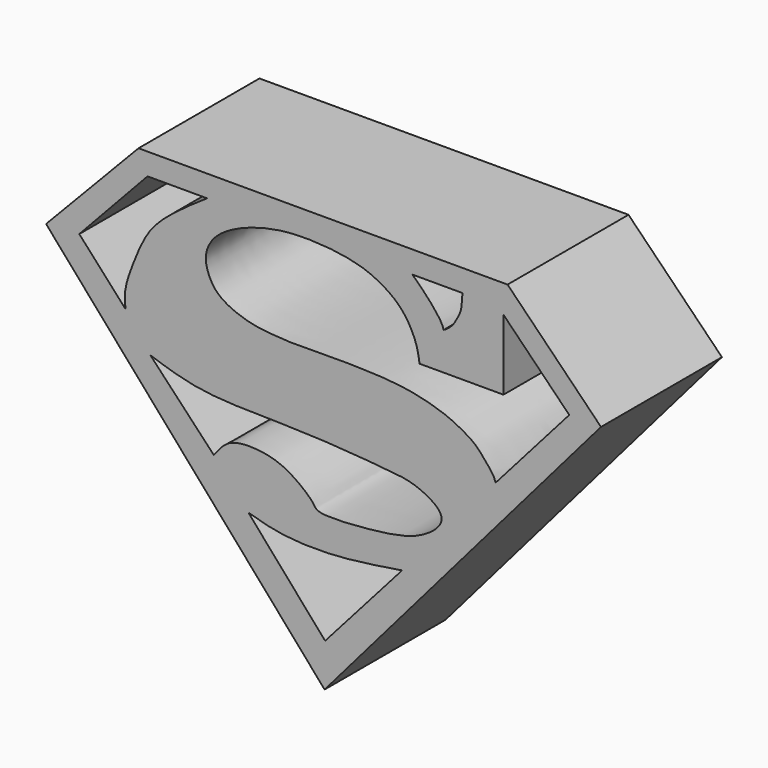
from build123d import *

# Parameters (mm, degrees)
F0_W     = 25.4
F0_H     = 25.4
F1_DEPTH = 6.35
F2_W     = 25.4
F2_H     = 25.4
F3_DEPTH = 25.4


with BuildPart() as f1:
    # F0 (on Front) → F1 (new body)
    with BuildSketch(Plane.XZ):
        with Locations((12.7, 12.7)):
            Rectangle(F0_W, F0_H)
    extrude(amount=F1_DEPTH)

    # F2 (on face) → F3 (cut)
    with BuildSketch(Plane.XZ.offset(6.35)):
        with Locations((12.7, 12.7)):
            Rectangle(F2_W, F2_H)
        Polygon((0.3338013776, 14.5358080044), (4.7320262529, 18.974384293), (20.6301975995, 18.974384293), (24.9477215111, 14.5358080044), (12.7214631066, 0.3323648707), align=None, mode=Mode.SUBTRACT)
        Polygon((20.6301975995, 18.974384293), (4.7320262529, 18.974384293), (0.3338013776, 14.5358080044), (12.7214631066, 0.3323648707), (24.9477215111, 14.5358080044), align=None)
        Polygon((1.0363665456, 14.4554575676), (4.9192802981, 18.517497927), (20.4212833196, 18.517497927), (24.3454314768, 14.5284896716), (12.7356834775, 1.0412566974), align=None, mode=Mode.SUBTRACT)
        with BuildLine():
            Line((20.2488508075, 14.388714917), (16.7226251215, 14.388714917))
            add(Edge.make_bspline(
                [(19.923210144, 11.0299624503), (19.8936833698, 11.1068205677), (19.8299234418, 11.2727874962), (19.6223696345, 11.549259391), (19.3461589342, 11.8666053246), (19.016136623, 12.2515289928), (18.1929920157, 12.6999751524), (17.8035091044, 12.8613244955), (17.1214191196, 13.0851285405), (16.5444929434, 13.2097138086), (16.0319357354, 13.3043296611), (15.4458397931, 13.3451740329), (15.2069802443, 13.3831303578), (14.7967498583, 13.3801712245), (14.4455542578, 13.4094445153), (14.0375044686, 13.41801948), (13.5998566511, 13.4322161736), (13.2790747943, 13.4090602494), (12.997560766, 13.4268268493), (12.6675563859, 13.4219929957), (12.3577212675, 13.4230111774), (11.7381036154, 13.4119693181), (11.1441655063, 13.4149227649), (10.6050706965, 13.4558974424), (9.9502260677, 13.5127650925), (9.3095858988, 13.660344231), (8.6977397381, 13.901021868), (8.1050269511, 14.2935394752), (7.7872763168, 14.9438702672), (7.6925907821, 15.5435629309), (8.0758372089, 16.3769056905), (9.3149079683, 17.0722576657), (10.676180334, 17.4114429825), (11.6535502048, 17.4877819437), (12.5212673577, 17.4675954763), (13.4152912783, 17.3848870993), (14.4931075695, 17.1612369259), (15.468036204, 16.6478782577), (16.143622712, 16.0254885621), (16.6213161242, 15.105885003), (16.6908395774, 14.6137259425), (16.7226251215, 14.388714917)],
                knots=[0, 0, 0, 0, 0.0164645042, 0.0355533454, 0.0564717872, 0.0801205572, 0.1112554378, 0.1331902125, 0.1603726427, 0.1856837551, 0.2096370752, 0.2342343485, 0.2505641867, 0.2710104343, 0.2906731917, 0.3115502614, 0.3332549045, 0.3516984566, 0.3690040569, 0.3874430816, 0.4057231709, 0.4313188187, 0.456766967, 0.4807148765, 0.5071122689, 0.5336306062, 0.5600718225, 0.5873195996, 0.6145839736, 0.6393940914, 0.6691626351, 0.7078611149, 0.7468518253, 0.7790314259, 0.8090692862, 0.8399781775, 0.874272503, 0.9083311803, 0.9396345261, 0.9724014078, 1, 1, 1, 1], degree=3))
            Line((19.923210144, 11.0299624503), (23.0121463537, 14.53757938))
            Line((23.0121463537, 14.53757938), (20.2488508075, 17.3473954201))
            Line((20.2488508075, 17.3473954201), (20.2488508075, 14.388714917))
        make_face()
        with BuildLine():
            Line((5.4179881699, 11.0252974555), (8.0811334774, 8.2007497549))
            add(Edge.make_bspline(
                [(8.0811334774, 8.2007497549), (8.2721304417, 8.4526674108), (8.665160909, 8.9710594932), (9.7827369848, 9.0540100476), (11.0619751357, 8.8392947447), (12.2876766366, 7.8415786879), (12.4018325363, 7.4038876799), (14.9067808681, 7.57256872), (16.7849008985, 7.8831382899), (18.0864189142, 9.0484979061), (16.58363858, 9.8993695802), (15.4745268105, 10.0241638434), (12.7418521776, 10.2490576582), (10.4334869279, 10.3057534404), (7.4965590108, 10.3273271839), (6.0780316763, 10.8036592335), (5.4179881699, 11.0252974555)],
                knots=[0, 0, 0, 0, 0.0543350695, 0.1118098281, 0.1783708811, 0.2472863384, 0.2805596652, 0.3660449464, 0.4504258046, 0.5120110847, 0.5752082443, 0.6383885786, 0.7306159756, 0.8198528517, 0.9161771842, 1, 1, 1, 1], degree=3))
        make_face()
        with BuildLine():
            add(Edge.make_bspline(
                [(9.5337582752, 6.5463711508), (9.9481622587, 6.4242008921), (10.8949182313, 6.1450881743), (13.1975767767, 6.0616926786), (15.0219543809, 6.3519998057), (15.9898679703, 6.5060206689)],
                knots=[0, 0, 0, 0, 0.2676368512, 0.611448725, 1, 1, 1, 1], degree=3))
            Line((9.5337582752, 6.5463711508), (12.7575154803, 2.8500761485))
            Line((12.7575154803, 2.8500761485), (15.9898679703, 6.5060206689))
        make_face()
        with BuildLine():
            Line((2.4320371449, 14.5358080044), (4.3688700534, 12.3972212896))
            add(Edge.make_bspline(
                [(4.3688700534, 12.3972212896), (4.3474908386, 12.6235960907), (4.2973519222, 13.1544943159), (4.7761170928, 14.4050099873), (5.299426727, 15.6435582132), (6.3786986686, 16.6374006108), (7.3101488706, 17.2704413338), (7.7986787073, 17.6024604589)],
                knots=[0, 0, 0, 0, 0.1502046303, 0.3522625808, 0.5573009887, 0.7678118753, 1, 1, 1, 1], degree=3))
            Line((7.7986787073, 17.6024604589), (5.2969362587, 17.6024604589))
            Line((5.2969362587, 17.6024604589), (2.4320371449, 14.5358080044))
        make_face()
        with BuildLine():
            Line((18.5231640935, 17.5879821181), (16.4146348834, 17.5879821181))
            add(Edge.make_bspline(
                [(16.4146348834, 17.5879821181), (16.4617947909, 17.5486051175), (16.5656420032, 17.4618960469), (16.7574345053, 17.2597056167), (17.0625591533, 16.9680525449), (17.3503633257, 16.6067737913), (17.6331356343, 16.2540558785), (17.7069416596, 16.0583280534), (17.739996314, 15.9706696868)],
                knots=[0, 0, 0, 0, 0.1242160729, 0.2735266794, 0.4585606667, 0.6551246827, 0.845544664, 1, 1, 1, 1], degree=3))
            add(Edge.make_bspline(
                [(17.739996314, 15.9706696868), (17.7713330952, 15.987168378), (17.8418463243, 16.0242933141), (17.9833664175, 16.1347166145), (18.1421903422, 16.2853039448), (18.3000369758, 16.5675376356), (18.4714224826, 16.8654485638), (18.5117875751, 17.3216101321), (18.5197205424, 17.5073541522), (18.5231640935, 17.5879821181)],
                knots=[0, 0, 0, 0, 0.0939660565, 0.2114400341, 0.3429591764, 0.500822122, 0.6674546417, 0.8556483498, 1, 1, 1, 1], degree=3))
        make_face()
    extrude(amount=-F3_DEPTH, mode=Mode.SUBTRACT)


solid = f1.part
